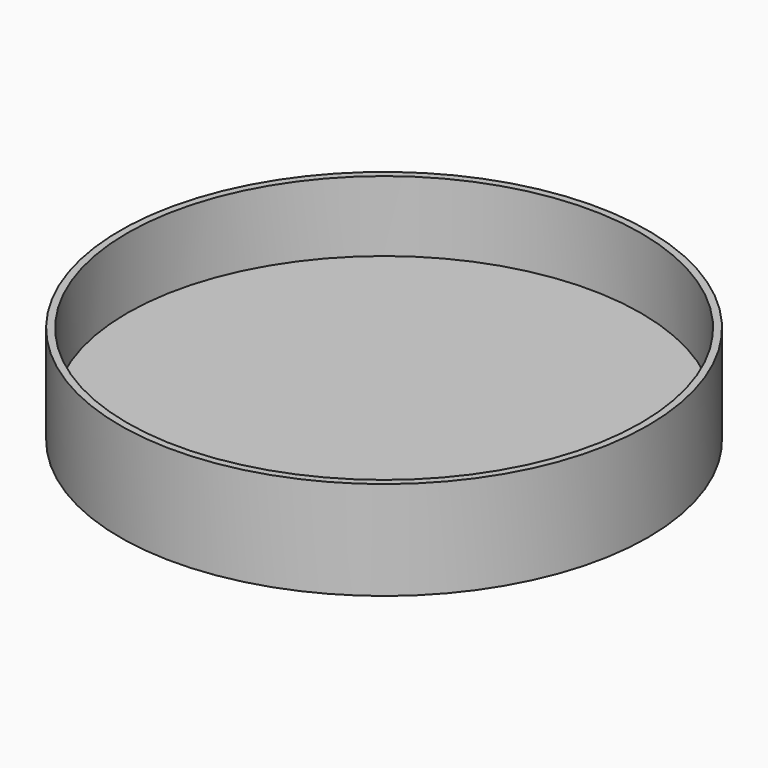
from build123d import *

# Parameters (mm, degrees)
SKETCH_R     = 18.75
PAD_DEPTH    = 7
SKETCH001_R  = 18.25
POCKET_DEPTH = 5


with BuildPart() as part:
    # Sketch → Pad (new body)
    with BuildSketch(Plane.XY):
        Circle(SKETCH_R)
    extrude(amount=PAD_DEPTH)

    # Sketch001 (on Face3 of Pad) → Pocket (cut)
    with BuildSketch(Plane.XY.offset(7)):
        Circle(SKETCH001_R)
    extrude(amount=-POCKET_DEPTH, mode=Mode.SUBTRACT)


solid = part.part
